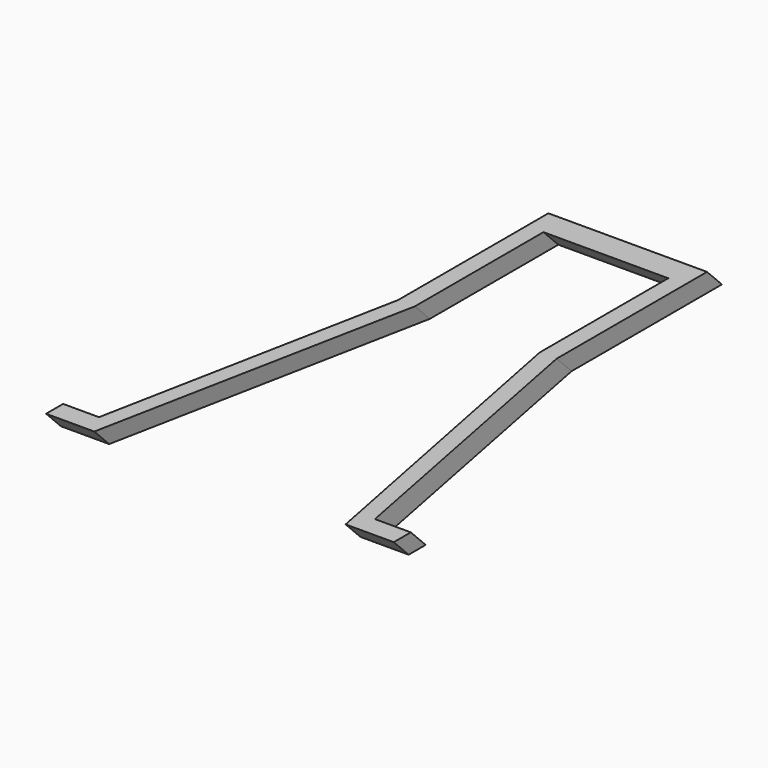
from build123d import *


with BuildPart() as f2:
    # F2: sweep along a path in F1
    with BuildLine(Plane.YZ) as f2_path:
        Line((0, 0), (-5.2465468888, 5.2465468888))
    # F0 (on Top) → F2 (sweep)
    with BuildSketch(Plane.XY):
        Polygon((-17.5813417882, -13.8564798981), (-17.5813417882, 31.3983540978), (17.5813417882, 31.3983540978), (17.5813417882, -13.8564798981), (35.3969819844, -104.5009791851), (38.8697721064, -104.5009791851), (48.9724315703, -104.5009791851), (48.9724315703, -98.5025316477), (38.8697721064, -98.5025316477), (22.3438417882, -13.8564798981), (22.3438417882, 39.0965069434), (0, 39.0965069434), (-22.3438417882, 39.0965069434), (-22.3438417882, -13.8564798981), (-38.8697721064, -98.5025316477), (-48.9724315703, -98.5025316477), (-48.9724315703, -104.5009791851), (-38.8697721064, -104.5009791851), (-35.3969819844, -104.5009791851), align=None)
    sweep(path=f2_path.line)


solid = f2.part
